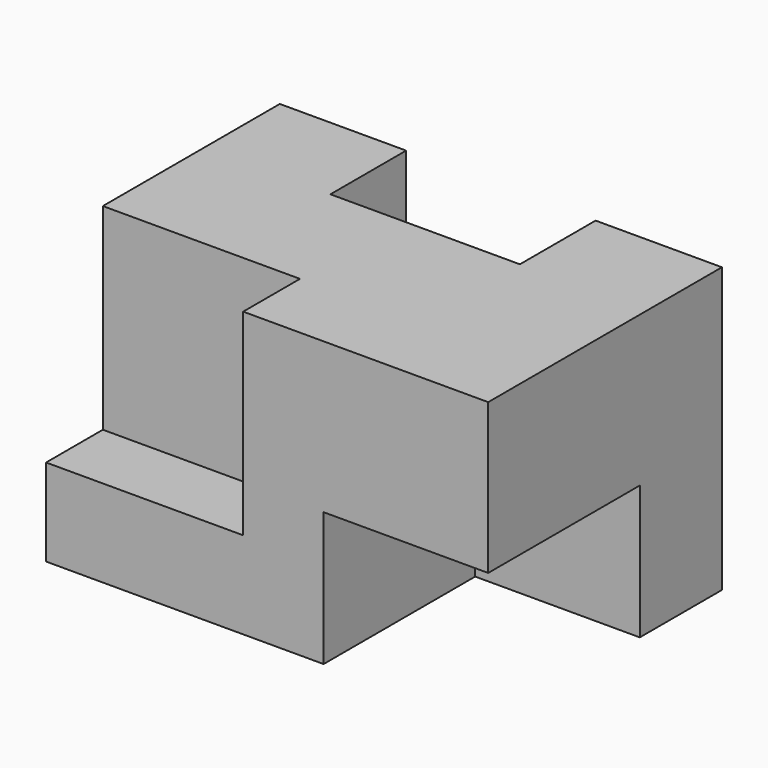
from build123d import *

# Parameters (mm, degrees)
F1_DEPTH = 35.9918
F2_W     = 24.9682
F2_H     = 24.9428
F3_DEPTH = 8.9916
F4_W     = 20.8534
F4_H     = 16.9418
F5_DEPTH = 24.003


with BuildPart() as f1:
    # F0 (on Top) → F1 (new body)
    with BuildSketch(Plane.XY):
        Polygon((0, -37.0078), (0, 0), (-16.002, 0), (-16.002, -11.9888), (-40.005, -11.9888), (-40.005, 0), (-56.007, 0), (-56.007, -37.0078), align=None)
    extrude(amount=F1_DEPTH)

    # F2 (on face) → F3 (cut)
    with BuildSketch(Plane.XZ.offset(37.0078)):
        with Locations((-43.5229, 23.5204)):
            Rectangle(F2_W, F2_H)
    extrude(amount=-F3_DEPTH, mode=Mode.SUBTRACT)

    # F4 (on face) → F5 (cut)
    with BuildSketch(Plane.XZ.offset(37.0078)):
        with Locations((-10.4267, 8.4709)):
            Rectangle(F4_W, F4_H)
    extrude(amount=-F5_DEPTH, mode=Mode.SUBTRACT)


solid = f1.part
